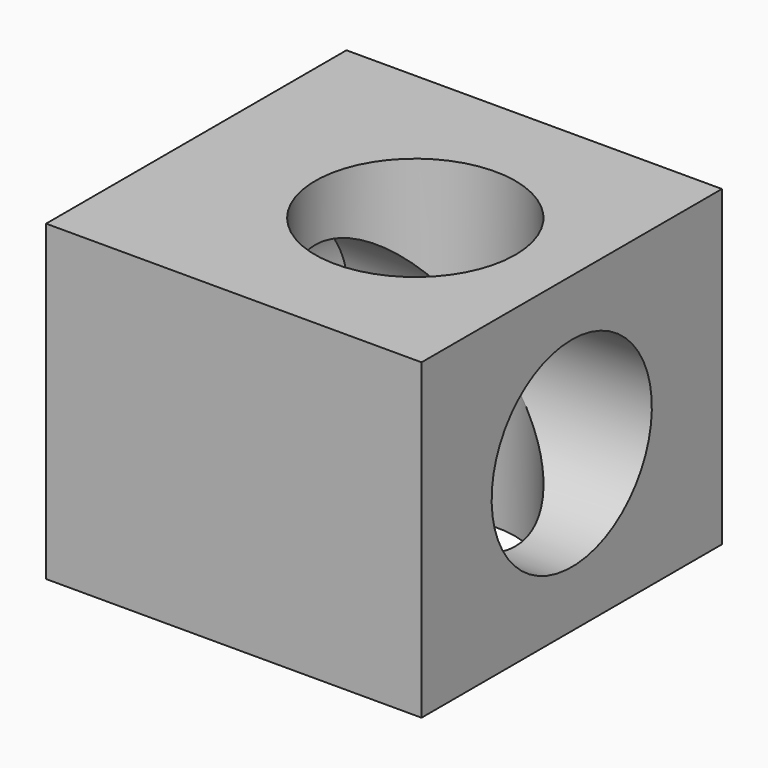
from build123d import *

# Parameters (mm, degrees)
SKETCH_W     = 12
SKETCH_H     = 12
PAD_DEPTH    = 5
SKETCH001_R  = 3.2
POCKET_DEPTH = 10.001


with BuildPart() as body001:
    # Sketch002 → Revolution (revolve)
    with BuildSketch(Plane.XZ):
        Polygon((-6, 0), (-6, 1.9), (-5, 1.9), (-3.7, 3.2), (6, 3.2), (6, 0), align=None)
    revolve(axis=Axis((0, 0, 0), (1, 0, 0)))


with BuildPart() as cut:
    # Sketch → Pad (new body, symmetric)
    with BuildSketch(Plane.XY):
        Rectangle(SKETCH_W, SKETCH_H)
    extrude(amount=PAD_DEPTH, both=True)

    # Sketch001 (on Face6 of Pad) → Pocket (cut, through all)
    with BuildSketch(Plane.XY.offset(5)):
        with Locations((1, 0)):
            Circle(SKETCH001_R)
    extrude(amount=-POCKET_DEPTH, mode=Mode.SUBTRACT)

    # Cut: cut Body001
    add(body001.part, mode=Mode.SUBTRACT)


solid = cut.part
